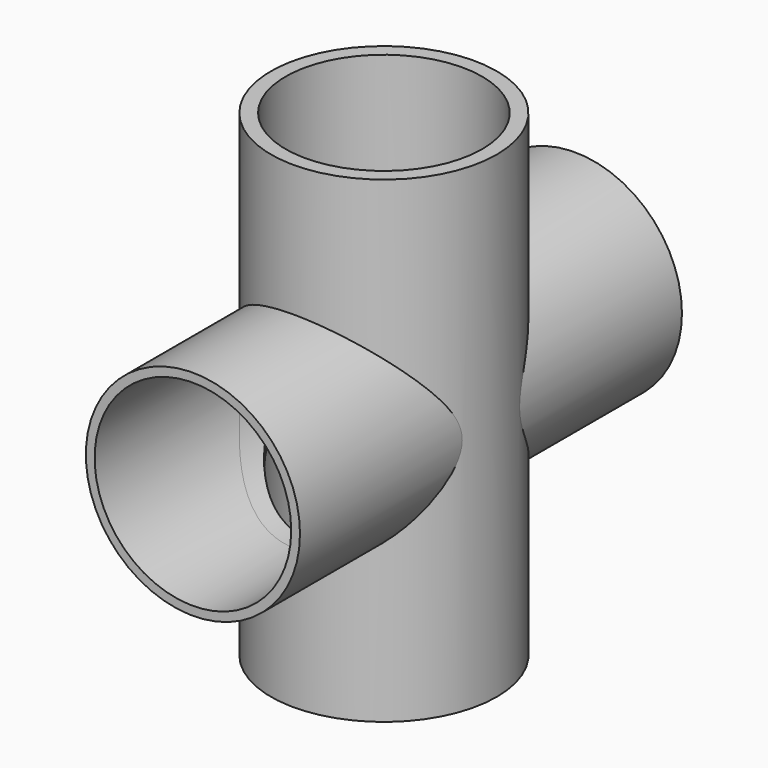
from build123d import *

# Parameters (mm, degrees)
F0_R     = 19.3
F0_R_2   = 16.8
F1_DEPTH = 81.6
F2_R     = 18.3
F2_R_2   = 16.8
F3_DEPTH = 40.8
F4_R     = 16
F5_DEPTH = 67.8
F6_R     = 16.8
F6_R_2   = 16
F7_DEPTH = 68


with BuildPart() as f1:
    # F0 (on Top) → F1 (new body)
    with BuildSketch(Plane.XY):
        Circle(F0_R)
        Circle(F0_R_2, mode=Mode.SUBTRACT)
    extrude(amount=F1_DEPTH)

    # F2 (on Front) → F3 (join, symmetric)
    with BuildSketch(Plane.XZ):
        with Locations((0, 40.8)):
            Circle(F2_R)
        with Locations((0, 40.8)):
            Circle(F2_R_2, mode=Mode.SUBTRACT)
    extrude(amount=F3_DEPTH, both=True)

    # F4 (on face) → F5 (cut)
    with BuildSketch(Plane.XY.offset(81.6)):
        Circle(F4_R)
    extrude(amount=-F5_DEPTH, mode=Mode.SUBTRACT)

    # F6 (on face) → F7 (cut)
    with BuildSketch(Plane.XZ.offset(40.8)):
        with Locations((0, 40.8)):
            Circle(F6_R)
        with Locations((0, 40.8)):
            Circle(F6_R_2, mode=Mode.SUBTRACT)
        with Locations((0, 40.8)):
            Circle(F6_R_2)
    extrude(amount=-F7_DEPTH, mode=Mode.SUBTRACT)


solid = f1.part
